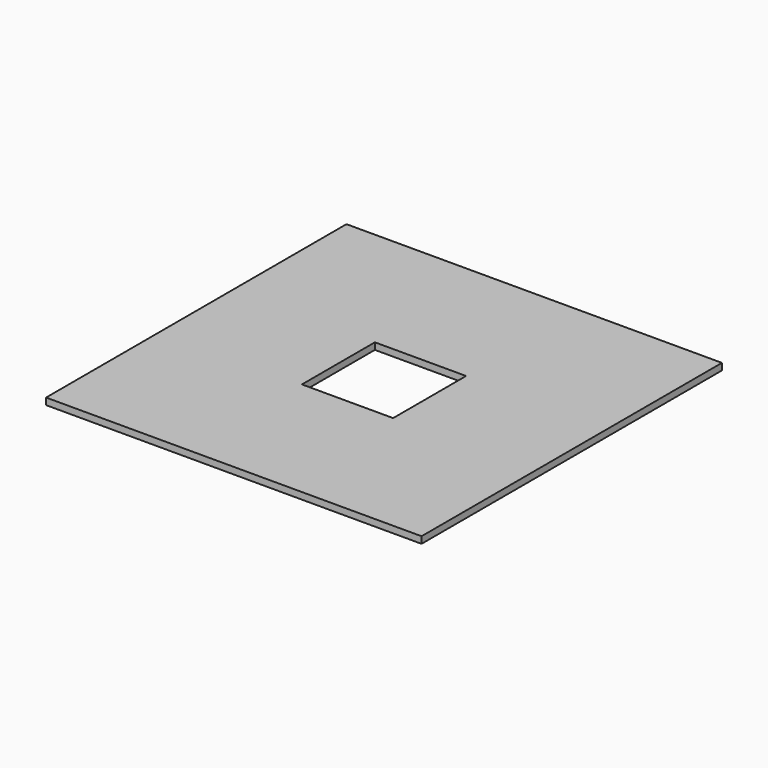
from build123d import *

# Parameters (mm, degrees)
F0_W     = 27.103196
F0_H     = 67.31
F1_DEPTH = 3.175


with BuildPart() as f1:
    # F0 (on Top) → F1 (new body)
    with BuildSketch(Plane.XY):
        Polygon((88.9, -88.9), (88.9, 88.9), (-88.9, 88.9), (-88.9, -88.9), (-14.235311, -88.9), (-14.235311, -21.59), (-21.59, -21.59), (-21.59, 21.59), (21.59, 21.59), (21.59, -21.59), (12.867885, -21.59), (12.867885, -88.9), align=None)
        with Locations((-0.683713, -55.245)):
            Rectangle(F0_W, F0_H)
    extrude(amount=F1_DEPTH)


solid = f1.part
